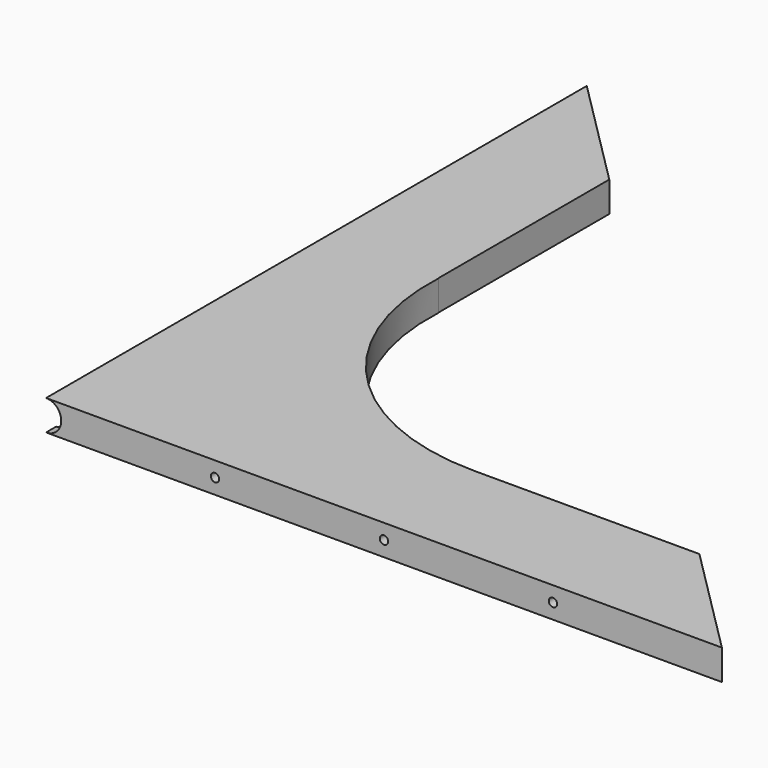
from build123d import *

# Parameters (mm, degrees)
PAD003_DEPTH           = 13.4
CYLINDER_W             = 6.7
CYLINDER_H             = 298.45
CYLINDER_ANGLE         = 180
CYLINDER001_R          = 99.483333
CYLINDER001_DEPTH      = 32
BOX_W                  = 149.225
BOX_H                  = 30
BOX_DEPTH              = 21
BOX001_W               = 33
BOX001_H               = 149.225
BOX001_DEPTH           = 22
CYLINDER002_R          = 3.7
CYLINDER002_DEPTH      = 105
LINEARPATTERN_COUNT    = 3
LINEARPATTERN_PITCH    = 74.6125
CYLINDER003_R          = 1.85
CYLINDER003_DEPTH      = 100
LINEARPATTERN001_COUNT = 3
LINEARPATTERN001_PITCH = 74.6125
CYLINDER004_R          = 2.55
CYLINDER004_DEPTH      = 10
LINEARPATTERN002_COUNT = 3
LINEARPATTERN002_PITCH = 141.16875


with BuildPart() as part:
    # Sketch003 → Pad003 (new body)
    with BuildSketch(Plane.XY):
        Polygon((0, 0), (298.45, 0), (0, 298.45), align=None)
    extrude(amount=PAD003_DEPTH)

    # Cylinder → Cylinder (revolve, cut)
    with BuildSketch(Plane(origin=(0, 0, 6.7), x_dir=(0, 0, 1), z_dir=(-1, 0, 0))):
        with Locations((3.35, 149.225)):
            Rectangle(CYLINDER_W, CYLINDER_H)
    revolve(axis=Axis((0, 0, 6.7), (0, 1, 0)), revolution_arc=CYLINDER_ANGLE, mode=Mode.SUBTRACT)

    # Cylinder001 → Cylinder001 (cut)
    with BuildSketch(Plane(origin=(149.225, 149.225, -8), x_dir=(1, 0, 0), z_dir=(0, 0, 1))):
        Circle(CYLINDER001_R)
    extrude(amount=CYLINDER001_DEPTH, mode=Mode.SUBTRACT)

    # Box → Box (cut)
    with BuildSketch(Plane(origin=(149.225, 79.741667, 17), x_dir=(1, 0, 0), z_dir=(0, 0, -1))):
        with Locations((74.6125, 15)):
            Rectangle(BOX_W, BOX_H)
    extrude(amount=BOX_DEPTH, mode=Mode.SUBTRACT)

    # Box001 → Box001 (cut)
    with BuildSketch(Plane(origin=(49.741667, 303.579167, 17), x_dir=(1, 0, 0), z_dir=(0, 0, -1))):
        with Locations((16.5, 74.6125)):
            Rectangle(BOX001_W, BOX001_H)
    extrude(amount=BOX001_DEPTH, mode=Mode.SUBTRACT)

    # Cylinder002 → Cylinder002 (cut)
    with BuildSketch(Plane(origin=(74.6125, 5, 6.7), x_dir=(-1, 0, 0), z_dir=(0, 1, 0))):
        Circle(CYLINDER002_R)
    cylinder002 = extrude(amount=CYLINDER002_DEPTH, mode=Mode.SUBTRACT)

    # LinearPattern: Cylinder002 ×3
    with Locations(*[(i * LINEARPATTERN_PITCH, 0, 0) for i in range(1, LINEARPATTERN_COUNT)]):
        add(cylinder002, mode=Mode.SUBTRACT)

    # Cylinder003 → Cylinder003 (cut)
    with BuildSketch(Plane(origin=(74.6125, 0, 6.7), x_dir=(-1, 0, 0), z_dir=(0, 1, 0))):
        Circle(CYLINDER003_R)
    cylinder003 = extrude(amount=CYLINDER003_DEPTH, mode=Mode.SUBTRACT)

    # LinearPattern001: Cylinder003 ×3
    with Locations(*[(i * LINEARPATTERN001_PITCH, 0, 0) for i in range(1, LINEARPATTERN001_COUNT)]):
        add(cylinder003, mode=Mode.SUBTRACT)

    # Cylinder004 → Cylinder004 (cut)
    with BuildSketch(Plane(origin=(0, 8.05625, 0), x_dir=(1, 0, 0), z_dir=(0, 0, 1))):
        Circle(CYLINDER004_R)
    cylinder004 = extrude(amount=CYLINDER004_DEPTH, mode=Mode.SUBTRACT)

    # LinearPattern002: Cylinder004 ×3
    with Locations(*[(0, i * LINEARPATTERN002_PITCH, 0) for i in range(1, LINEARPATTERN002_COUNT)]):
        add(cylinder004, mode=Mode.SUBTRACT)


solid = part.part
